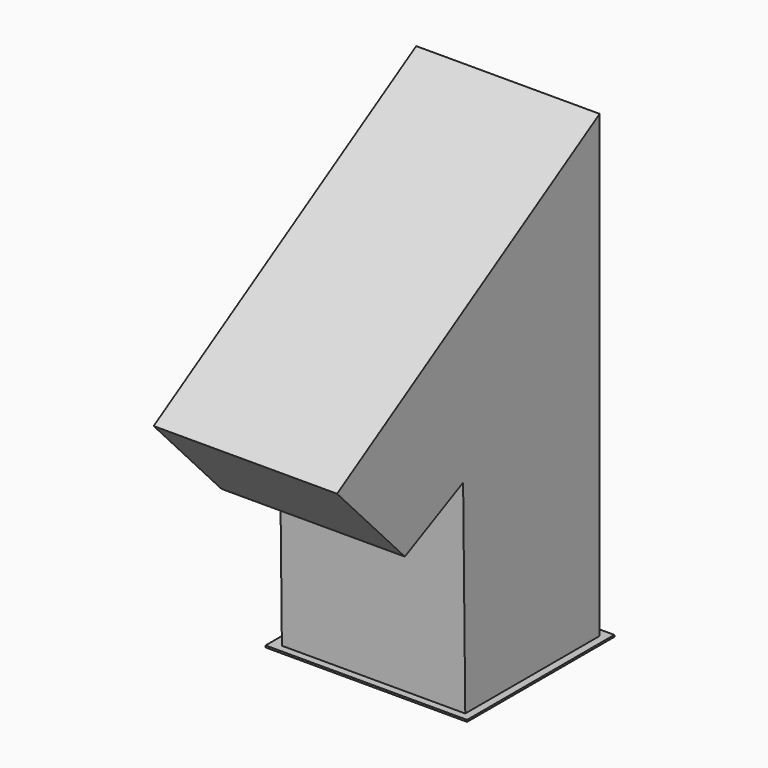
from build123d import *

# Parameters (mm, degrees)
F1_DEPTH = 50.8
F2_W     = 55.813026
F2_H     = 50.985549
F3_DEPTH = 0.508


with BuildPart() as f1:
    # F0 (on Right) → F1 (new body)
    with BuildSketch(Plane.YZ):
        Polygon((-23.537235, 56.615818), (-22.788359, 0), (23.725847, 0), (23.725847, 127.323955), (-67.180149, 71.632735), (-43.716218, 46.760969), align=None)
    extrude(amount=-F1_DEPTH)

    # F2 (on Top) → F3 (join)
    with BuildSketch(Plane.XY):
        with Locations((-25.752099, 0.632371)):
            Rectangle(F2_W, F2_H)
    extrude(amount=-F3_DEPTH)


solid = f1.part
